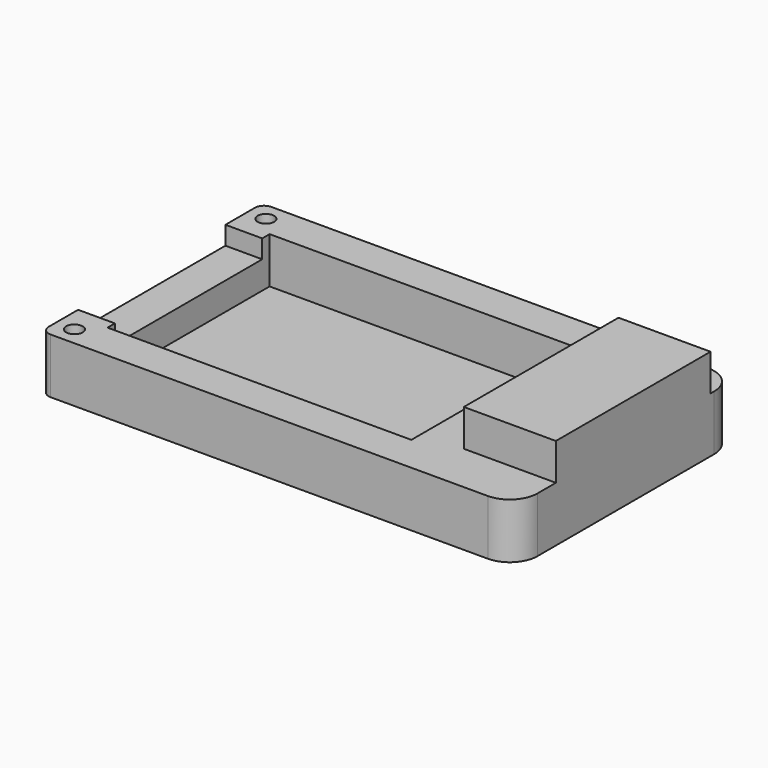
from build123d import *

# Parameters (mm, degrees)
SKETCH_W        = 51.5
SKETCH_H        = 30
PAD_DEPTH       = 6
SKETCH001_W     = 33
SKETCH001_H     = 22
POCKET_DEPTH    = 5
SKETCH002_R     = 0.9
POCKET001_DEPTH = 6.001
SKETCH003_W     = 10
SKETCH003_H     = 21
PAD001_DEPTH    = 4
SKETCH004_W     = 4
SKETCH004_H     = 20
POCKET002_DEPTH = 2
FILLET_R        = 1
FILLET001_R     = 3


with BuildPart() as part:
    # Sketch → Pad (new body)
    with BuildSketch(Plane.XY):
        with Locations((25.75, 15)):
            Rectangle(SKETCH_W, SKETCH_H)
    extrude(amount=PAD_DEPTH)

    # Sketch001 (on Face6 of Pad) → Pocket (cut)
    with BuildSketch(Plane.XY.offset(6)):
        with Locations((20.5, 15)):
            Rectangle(SKETCH001_W, SKETCH001_H)
    extrude(amount=-POCKET_DEPTH, mode=Mode.SUBTRACT)

    # Sketch002 (on Face5 of Pocket) → Pocket001 (cut, through all)
    with BuildSketch(Plane.XY.offset(6)):
        with Locations((2, 28)):
            Circle(SKETCH002_R)
        with Locations((2, 2)):
            Circle(SKETCH002_R)
    extrude(amount=-POCKET001_DEPTH, mode=Mode.SUBTRACT)

    # Sketch003 (on Face5 of Pocket001) → Pad001 (join)
    with BuildSketch(Plane.XY.offset(6)):
        with Locations((46.5, 16)):
            Rectangle(SKETCH003_W, SKETCH003_H)
    extrude(amount=PAD001_DEPTH)

    # Sketch004 (on Face5 of Pad001) → Pocket002 (cut)
    with BuildSketch(Plane.XY.offset(6)):
        with Locations((2, 15)):
            Rectangle(SKETCH004_W, SKETCH004_H)
    extrude(amount=-POCKET002_DEPTH, mode=Mode.SUBTRACT)

    # Fillet
    fillet_edges = [part.edges().sort_by_distance(p)[0] for p in [
        (0, 30, 3),
        (0, 0, 3),
    ]]
    fillet(fillet_edges, radius=FILLET_R)

    # Fillet001
    fillet001_edges = [part.edges().sort_by_distance(p)[0] for p in [
        (51.5, 30, 3),
        (51.5, 0, 3),
    ]]
    fillet(fillet001_edges, radius=FILLET001_R)


solid = part.part
